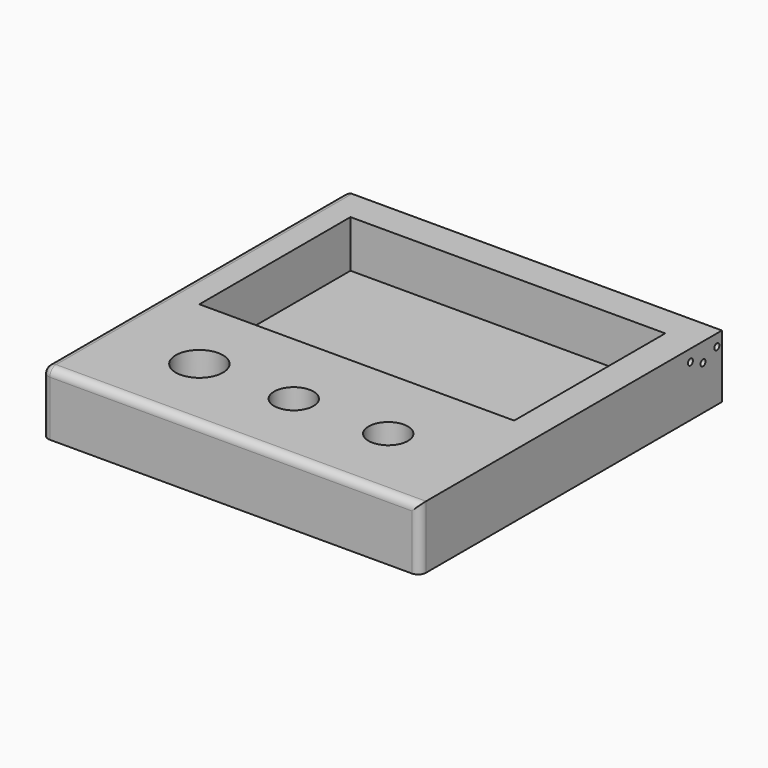
from build123d import *

# Parameters (mm, degrees)
F0_W     = 609.6
F0_H     = 609.6
F1_DEPTH = 101.6
F2_W     = 508
F2_H     = 304.8
F2_R     = 38.1
F2_R_2   = 31.75
F3_DEPTH = 76.2
F4_R     = 12.7
F5_R     = 5.08
F6_DEPTH = 38.1


with BuildPart() as f1:
    # F0 (on Top) → F1 (new body)
    with BuildSketch(Plane.XY):
        with Locations((-38.065076, 1.158021)):
            Rectangle(F0_W, F0_H)
    extrude(amount=F1_DEPTH)

    # F2 (on face) → F3 (cut)
    with BuildSketch(Plane.XY.offset(101.6)):
        with Locations((-38.065076, 102.758021)):
            Rectangle(F2_W, F2_H)
        with Locations((-190.465076, -176.641979)):
            Circle(F2_R)
        with Locations((-38.065076, -176.641979)):
            Circle(F2_R_2)
        with Locations((114.334924, -176.641979)):
            Circle(F2_R_2)
    extrude(amount=-F3_DEPTH, mode=Mode.SUBTRACT)

    # F4
    f4_edges = [f1.edges().sort_by_distance(p)[0] for p in [
        (-38.065076, -303.641979, 101.6),
        (266.734924, -303.641979, 50.8),
        (-342.865076, 1.158021, 101.6),
        (-342.865076, -303.641979, 50.8),
        (-342.865076, 305.958021, 50.8),
    ]]
    fillet(f4_edges, radius=F4_R)

    # F5 (on face) → F6 (cut)
    with BuildSketch(Plane.YZ.offset(266.734924)):
        with Locations((242.362949, 82.55)):
            Circle(F5_R)
        with Locations((267.858021, 71.12)):
            Circle(F5_R)
        with Locations((295.798021, 82.55)):
            Circle(F5_R)
    extrude(amount=-F6_DEPTH, mode=Mode.SUBTRACT)


solid = f1.part
